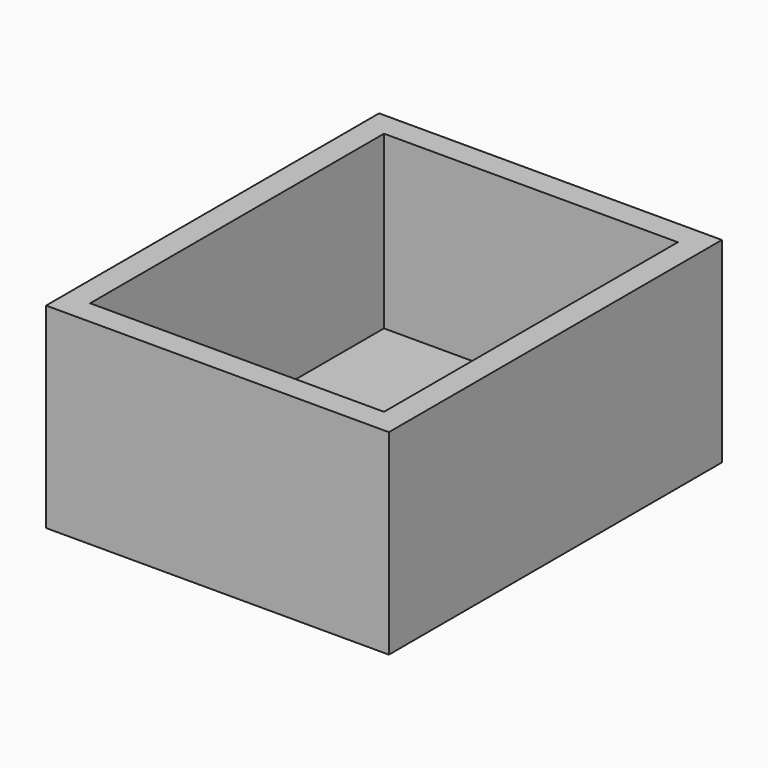
from build123d import *

# Parameters (mm, degrees)
F0_W     = 14
F0_H     = 17
F1_DEPTH = 1
F2_W     = 14
F2_H     = 17
F2_W_2   = 12
F2_H_2   = 15
F3_DEPTH = 7
F5_D     = 1


with BuildPart() as f1:
    # F0 (on Top) → F1 (new body)
    with BuildSketch(Plane.XY):
        with Locations((33.291668, -25.269144)):
            Rectangle(F0_W, F0_H)
    extrude(amount=F1_DEPTH)

    # F2 (on face) → F3 (join)
    with BuildSketch(Plane.XY.offset(1)):
        with Locations((33.291668, -25.269144)):
            Rectangle(F2_W, F2_H)
        with Locations((33.291668, -25.269144)):
            Rectangle(F2_W_2, F2_H_2, mode=Mode.SUBTRACT)
    extrude(amount=F3_DEPTH)

    # F5 (through all)
    with Locations(Plane.XY.offset(1)):
        with Locations((28.405087, -31.885728), (37.959054, -31.737298)):
            Hole(F5_D / 2)


solid = f1.part
